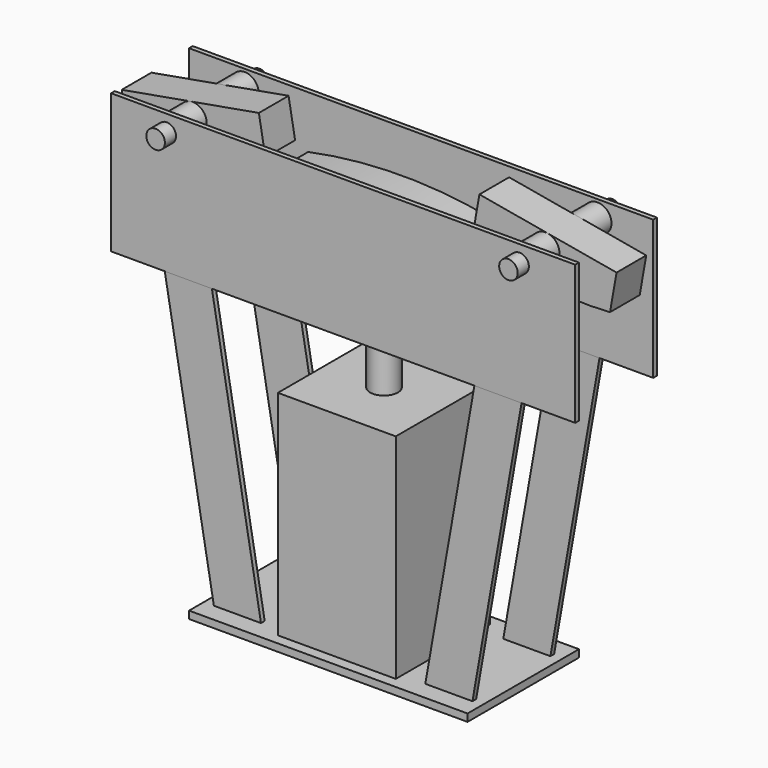
from build123d import *

# Parameters (mm, degrees)
F1_W           = 127
F1_H           = 127
F2_DEPTH       = 230
F3_R           = 15
F4_DEPTH       = 150
F5_W           = 300
F5_H           = 150
F6_DEPTH       = 8
F8_DEPTH       = 25
F11_DEPTH      = 5
F14_W          = 500
F14_H          = 150
F15_DEPTH      = 5
F17_R          = 10
F18_DEPTH      = 20
F19_R          = 15
F19_R_2        = 10
F20_DEPTH      = 30
F22_R          = 10
F23_DEPTH      = 15
F23_DEPTH_BACK = 125


with BuildPart() as f2:
    # F1 (on offset) → F2 (new body)
    with BuildSketch(Plane.XY.offset(-377)):
        Rectangle(F1_W, F1_H)
    extrude(amount=F2_DEPTH)


with BuildPart() as f4:
    # F3 (on face) → F4 (new body)
    with BuildSketch(Plane.XY.offset(-147)):
        Circle(F3_R)
    extrude(amount=F4_DEPTH)


with BuildPart() as f6:
    # F5 (on offset) → F6 (new body)
    with BuildSketch(Plane.XY.offset(-377)):
        Rectangle(F5_W, F5_H)
    extrude(amount=-F6_DEPTH)


with BuildPart() as f8:
    # F7 (on Front) → F8 (new body, symmetric)
    with BuildSketch(Plane.XZ):
        with BuildLine():
            ThreePointArc((98.240208, 33.718437), (-1.796081, 43.461336), (-101.759792, 33))
            Line((-101.759792, 33), (-101.759792, -7))
            Line((-101.759792, -7), (98.240208, -7))
            Line((98.240208, -7), (98.240208, 33.718437))
        make_face()
    extrude(amount=F8_DEPTH, both=True)


with BuildPart() as f11:
    # F10 (on offset) → F11 (new body)
    with BuildSketch(Plane.XZ.offset(50)):
        Polygon((-139.271331, -377), (-88.5, -377), (-141.398094, -77), (-192.169425, -77), align=None)
    extrude(amount=F11_DEPTH)


with BuildPart() as f12_1:
    # F12: instance of F11
    add(f11.part.mirror(Plane.XZ))


with BuildPart() as f13_1:
    # F13: instance of F12_1
    add(f12_1.part.mirror(Plane.YZ))


with BuildPart() as f13_2:
    # F13: instance of F11
    add(f11.part.mirror(Plane.YZ))


with BuildPart() as f15:
    # F14 (on offset) → F15 (new body)
    with BuildSketch(Plane.XZ.offset(50)):
        with Locations((0, -2)):
            Rectangle(F14_W, F14_H)
    extrude(amount=F15_DEPTH)


with BuildPart() as f16_1:
    # F16: instance of F15
    add(f15.part.mirror(Plane.XZ))


with BuildPart() as f18:
    # F17 (on Front) → F18 (new body, symmetric)
    with BuildSketch(Plane.XZ):
        with BuildLine():
            Line((-118.794124, 82.745038), (-266.515287, 56.697811))
            Line((-266.515287, 56.697811), (-259.487094, 16.838947))
            ThreePointArc((-259.487094, 16.838947), (-183.972296, 20.481037), (-111.765931, 42.886174))
            Line((-111.765931, 42.886174), (-118.794124, 82.745038))
        make_face()
        with Locations((-190.049983, 54.949308)):
            Circle(F17_R, mode=Mode.SUBTRACT)
    extrude(amount=F18_DEPTH, both=True)


with BuildPart() as f20:
    # F19 (on face) → F20 (new body, through all)
    with BuildSketch(Plane.XZ.offset(20)):
        with Locations((-190.049983, 54.949308)):
            Circle(F19_R)
        with Locations((-190.049983, 54.949308)):
            Circle(F19_R_2, mode=Mode.SUBTRACT)
    extrude(amount=F20_DEPTH)


with BuildPart() as f21_1:
    # F21: instance of F20
    add(f20.part.mirror(Plane.XZ))


with BuildPart() as f23:
    # F22 (on face) → F23 (new body, two sides)
    with BuildSketch(Plane.XZ.offset(55)) as f23_sk:
        with Locations((-190.049983, 54.949308)):
            Circle(F22_R)
    extrude(amount=F23_DEPTH)
    extrude(f23_sk.sketch, amount=-F23_DEPTH_BACK)


with BuildPart() as f24_1:
    # F24: instance of F23
    add(f23.part.mirror(Plane.YZ))


with BuildPart() as f24_2:
    # F24: instance of F20
    add(f20.part.mirror(Plane.YZ))


with BuildPart() as f24_3:
    # F24: instance of F21_1
    add(f21_1.part.mirror(Plane.YZ))


with BuildPart() as f24_4:
    # F24: instance of F18
    add(f18.part.mirror(Plane.YZ))


solid = Compound([f2.part, f4.part, f6.part, f8.part, f11.part, f12_1.part, f13_1.part, f13_2.part, f15.part, f16_1.part, f18.part, f20.part, f21_1.part, f23.part, f24_1.part, f24_2.part, f24_3.part, f24_4.part])
